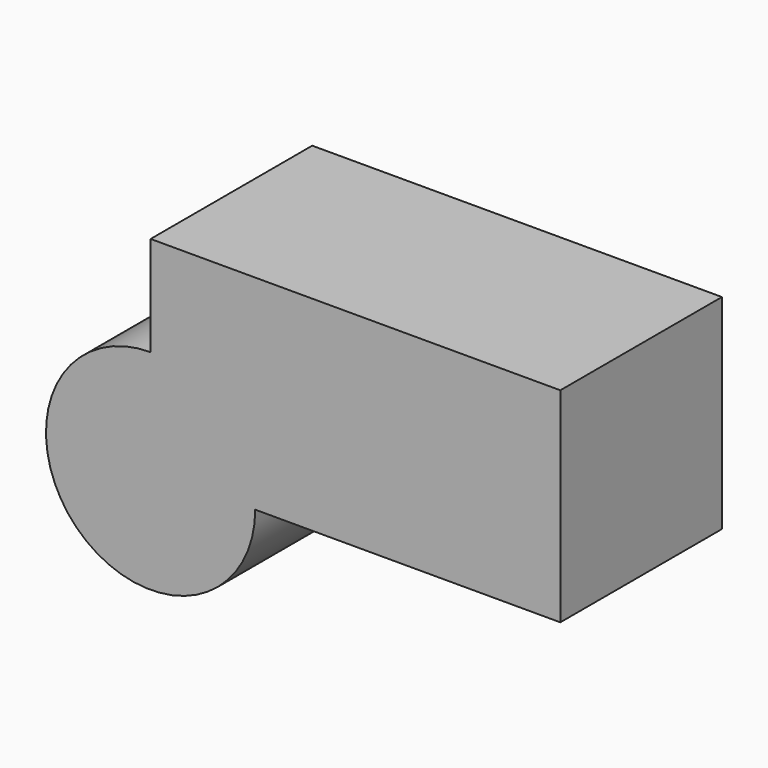
from build123d import *

# Parameters (mm, degrees)
F0_W     = 103.033476
F0_H     = 51.378462
F1_DEPTH = 50.8
F2_R     = 26.310266
F3_DEPTH = 75


with BuildPart() as f1:
    # F0 (on Front) → F1 (new body)
    with BuildSketch(Plane.XZ):
        with Locations((51.516738, 25.689231)):
            Rectangle(F0_W, F0_H)
    extrude(amount=F1_DEPTH)

    # F2 (on face) → F3 (join)
    with BuildSketch(Plane.XZ.offset(50.8)):
        Circle(F2_R)
    extrude(amount=-F3_DEPTH)


solid = f1.part
